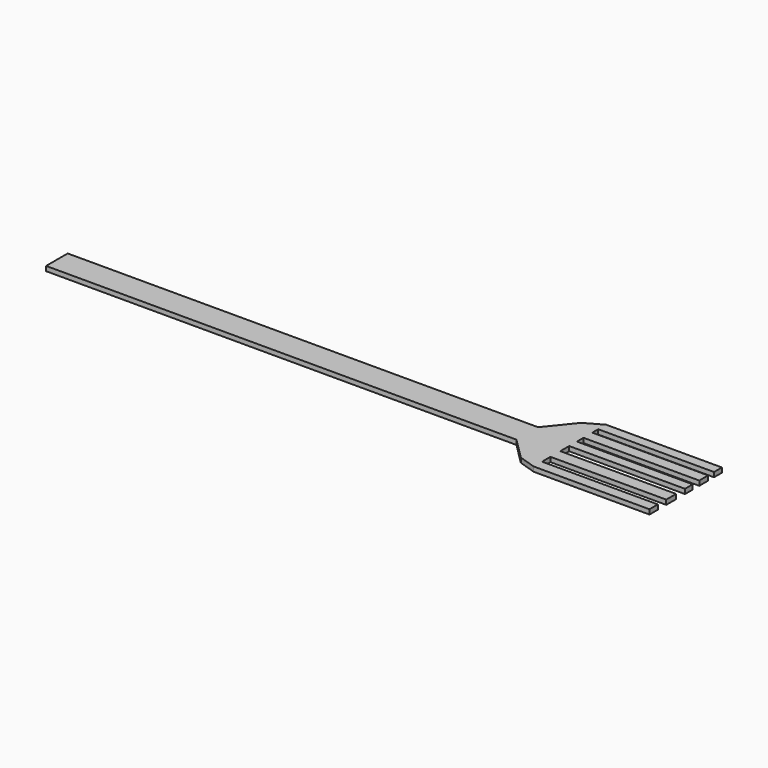
from build123d import *

# Parameters (mm, degrees)
F0_W     = 102.382466
F0_H     = 5.877512
F1_DEPTH = 1.016


with BuildPart() as f1:
    # F0 (on Top) → F1 (new body)
    with BuildSketch(Plane.XY):
        with Locations((-51.191233, -2.938756)):
            Rectangle(F0_W, F0_H)
        Polygon((4.706718, 5.804283), (0, 0), (0, -5.877512), (4.706718, -10.5517), (8.460551, -11.758289), (33.664852, -11.758289), (33.664852, -9.479176), (8.460551, -9.479176), (8.460551, -7.200064), (33.664852, -7.200064), (33.664852, -4.518756), (8.460551, -4.518756), (8.460551, -2.105578), (33.664852, -2.105578), (33.664852, 0), (8.460551, 0), (8.460551, 1.78232), (33.664852, 1.78232), (33.664852, 4.195498), (8.460551, 4.195498), (8.460551, 5.804283), (33.664852, 5.804283), (33.664852, 7.94933), (8.460551, 7.94933), align=None)
    extrude(amount=-F1_DEPTH)


solid = f1.part
